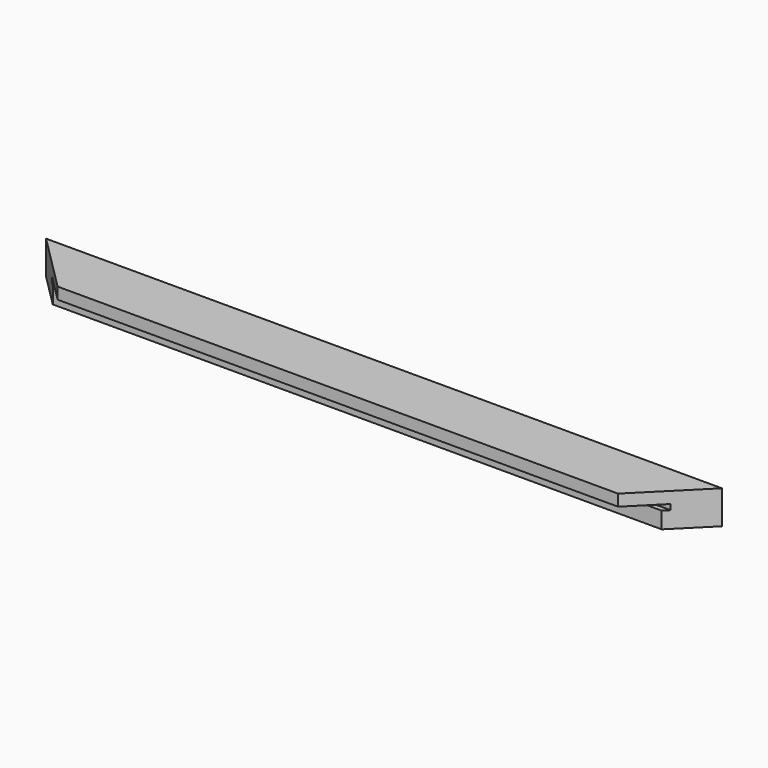
from build123d import *

# Parameters (mm, degrees)
F1_DEPTH = 205
F3_DEPTH = 25.4


with BuildPart() as f1:
    # F0 (on Right) → F1 (new body, symmetric)
    with BuildSketch(Plane.YZ):
        Polygon((17.2946, -10), (17.2946, 10.3), (-17.7054, 10.3), (-17.7054, 3.3), (0, 3.3), (0, 0), (-3, 0), (-3, -10), align=None)
    extrude(amount=F1_DEPTH, both=True)

    # F2 (on face) → F3 (cut)
    with BuildSketch(Plane.XY.offset(10.3)):
        Polygon((-170, -17.7054), (-205, 17.2946), (-205, -17.7054), align=None)
        Polygon((205, -17.7054), (205, 17.2946), (170, -17.7054), align=None)
    extrude(amount=-F3_DEPTH, mode=Mode.SUBTRACT)


solid = f1.part
